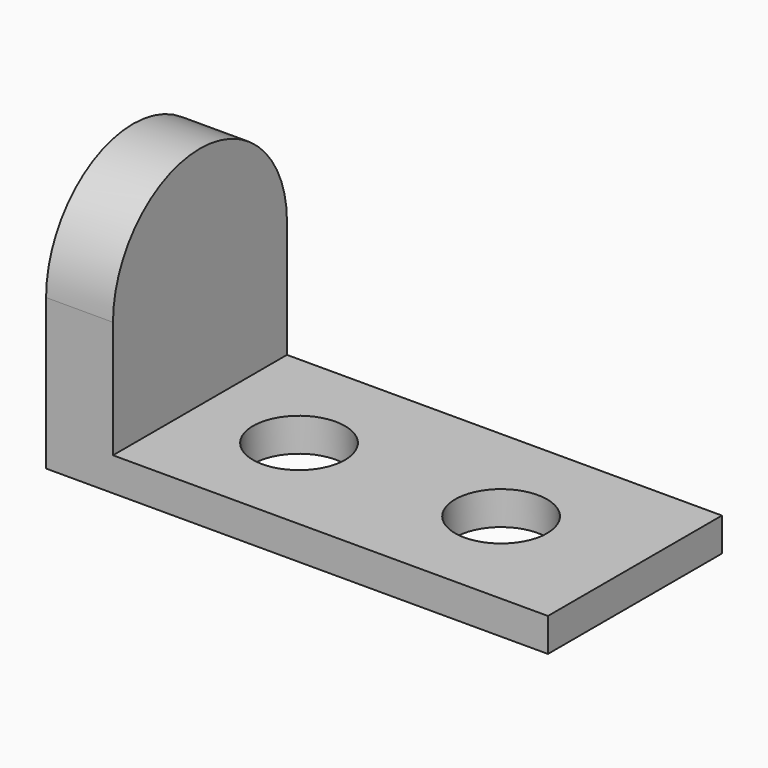
from build123d import *

# Parameters (mm, degrees)
F1_DEPTH = 82.55
F3_DEPTH = 25.4
F4_R     = 17.4625
F5_DEPTH = 12.7


with BuildPart() as f1:
    # F0 (on Front) → F1 (new body)
    with BuildSketch(Plane.XZ):
        Polygon((0, 127), (0, 0), (190.5, 0), (190.5, 12.7), (25.4, 12.7), (25.4, 127), align=None)
    extrude(amount=F1_DEPTH)

    # F2 (on face) → F3 (cut)
    with BuildSketch(Plane(origin=(0, 0, 0), x_dir=(0, -1, 0), z_dir=(-1, 0, 0))):
        with BuildLine():
            Line((0, 127), (0, 57.15))
            ThreePointArc((0, 57.15), (41.275, 98.425), (82.55, 57.15))
            Line((82.55, 57.15), (82.55, 127))
            Line((82.55, 127), (0, 127))
        make_face()
    extrude(amount=-F3_DEPTH, mode=Mode.SUBTRACT)

    # F4 (on face) → F5 (cut)
    with BuildSketch(Plane.XY.offset(12.7)):
        with Locations((63.5, -41.918826)):
            Circle(F4_R)
        with Locations((139.7, -41.275)):
            Circle(F4_R)
    extrude(amount=-F5_DEPTH, mode=Mode.SUBTRACT)


solid = f1.part
